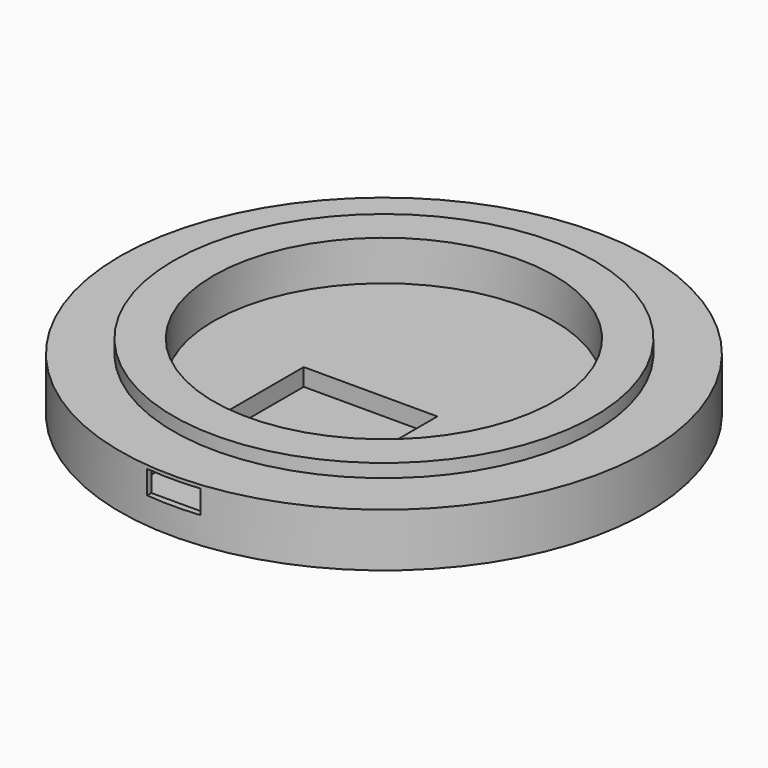
from build123d import *

# Parameters (mm, degrees)
F2_W     = 8
F2_H     = 0.65
F3_DEPTH = 3.5
F4_DEPTH = 2.6


with BuildPart() as f1:
    # F0 (on Front) → F1 (revolve)
    with BuildSketch(Plane.XZ):
        Polygon((-39.5, 8), (-39.5, 0), (0, 0), (0, 4), (-25.5, 4), (-25.5, 10), (-31.5, 10), (-31.5, 8), align=None)
    revolve(axis=Axis((0, 0, 4.935035), (0, 0, -1)))

    # F2 (on face) → F3 (cut)
    with BuildSketch(Plane.XY.offset(4)):
        with Locations((0, -39.175)):
            Rectangle(F2_W, F2_H)
        Polygon((4, -38.8), (4, -38.5), (-4, -38.5), (-4, -38.85), (4, -38.85), align=None)
        with BuildLine():
            Line((10, -23.457408), (10, -2.5))
            Line((10, -2.5), (-10, -2.5))
            Line((-10, -2.5), (-10, -23.457408))
            ThreePointArc((-10, -23.457408), (0, -25.5), (10, -23.457408))
        make_face()
        with BuildLine():
            Line((10, -35), (10, -23.457408))
            ThreePointArc((10, -23.457408), (0, -25.5), (-10, -23.457408))
            Line((-10, -23.457408), (-10, -35))
            Line((-10, -35), (-6, -38.5))
            Line((-6, -38.5), (-4, -38.5))
            Line((-4, -38.5), (4, -38.5))
            Line((4, -38.5), (6, -38.5))
            Line((6, -38.5), (10, -35))
        make_face()
    extrude(amount=F3_DEPTH, mode=Mode.SUBTRACT)

    # F2 (on face) → F4 (cut)
    with BuildSketch(Plane.XY.offset(4)):
        with BuildLine():
            Line((10, -23.457408), (10, -2.5))
            Line((10, -2.5), (-10, -2.5))
            Line((-10, -2.5), (-10, -23.457408))
            ThreePointArc((-10, -23.457408), (0, -25.5), (10, -23.457408))
        make_face()
        with BuildLine():
            Line((10, -35), (10, -23.457408))
            ThreePointArc((10, -23.457408), (0, -25.5), (-10, -23.457408))
            Line((-10, -23.457408), (-10, -35))
            Line((-10, -35), (-6, -38.5))
            Line((-6, -38.5), (-4, -38.5))
            Line((-4, -38.5), (4, -38.5))
            Line((4, -38.5), (6, -38.5))
            Line((6, -38.5), (10, -35))
        make_face()
    extrude(amount=-F4_DEPTH, mode=Mode.SUBTRACT)


solid = f1.part
